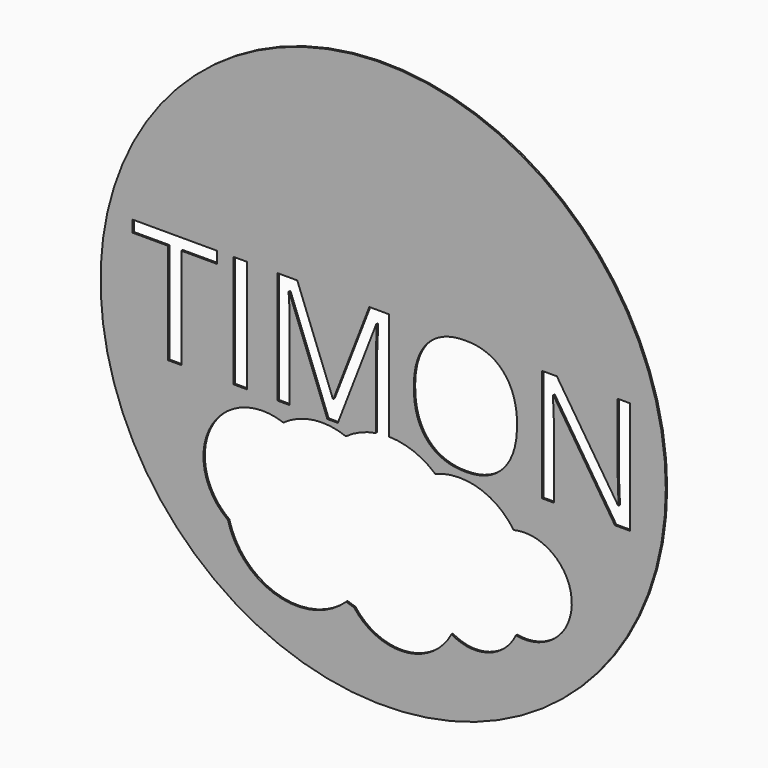
from build123d import *

# Parameters (mm, degrees)
F0_R     = 500
F0_W     = 23.0880718875
F0_H     = 198.6617711001
F1_DEPTH = 3


with BuildPart() as f1:
    # F0 (on Front) → F1 (new body)
    with BuildSketch(Plane.XZ):
        Circle(F0_R)
        with BuildLine():
            ThreePointArc((-274.567418569, -300.6351906095), (-305.6079419009, -166.1235155196), (-176.6063983823, -116.975711967))
            ThreePointArc((-176.6063983823, -116.975711967), (-123.1889327411, -95.6085057867), (-66.0571388124, -102.3865038656))
            ThreePointArc((-66.0571388124, -102.3865038656), (-40.8752164599, -88.187383642), (-13.1344654752, -80.0513549242))
            Line((-13.1344654752, -80.0513549242), (-13.1344654752, 41.8377829303))
            add(Edge.make_bspline(
                [(-13.1344654752, 41.8377829303), (-13.1344654752, 63.8388457836), (-11.2213295749, 89.6661804375)],
                knots=[0, 0, 0, 1, 1, 1], degree=2))
            Line((-11.2213295749, 89.6661804375), (-12.3083386092, 89.6661804375))
            Line((-12.3083386092, 89.6661804375), (-80.2681434307, -86.1684009433))
            Line((-80.2681434307, -86.1684009433), (-98.8777380971, -86.1684009433))
            Line((-98.8777380971, -86.1684009433), (-166.2722982207, 89.9270626057))
            Line((-166.2722982207, 89.9270626057), (-167.359307255, 89.9270626057))
            add(Edge.make_bspline(
                [(-167.359307255, 89.9270626057), (-165.4461713547, 69.0130087867), (-165.4461713547, 40.1855291983)],
                knots=[0, 0, 0, 1, 1, 1], degree=2))
            Line((-165.4461713547, 40.1855291983), (-165.4461713547, -86.1684009433))
            Line((-165.4461713547, -86.1684009433), (-186.7950287874, -86.1684009433))
            Line((-186.7950287874, -86.1684009433), (-186.7950287874, 112.4933701568))
            Line((-186.7950287874, 112.4933701568), (-152.0107396913, 112.4933701568))
            Line((-152.0107396913, 112.4933701568), (-89.0946567888, -51.3841118472))
            Line((-89.0946567888, -51.3841118472), (-88.0076477545, -51.3841118472))
            Line((-88.0076477545, -51.3841118472), (-24.5698005155, 112.4933701568))
            Line((-24.5698005155, 112.4933701568), (9.9536064123, 112.4933701568))
            Line((9.9536064123, 112.4933701568), (9.9536064123, -78.2026726688))
            ThreePointArc((9.9536064123, -78.2026726688), (53.773823289, -86.5372862236), (92.0090216607, -109.5100264977))
            ThreePointArc((92.0090216607, -109.5100264977), (168.8010036172, -106.3879816048), (230.8163361906, -151.7846134505))
            ThreePointArc((230.8163361906, -151.7846134505), (301.8959936917, -167.3086216291), (333.6679179608, -232.7598047248))
            ThreePointArc((333.6679179608, -232.7598047248), (303.4547141219, -296.9531582441), (234.7315185471, -314.581167554))
            ThreePointArc((234.7315185471, -314.581167554), (185.5253099789, -357.3835232893), (120.7398090278, -349.8914284782))
            ThreePointArc((120.7398090278, -349.8914284782), (38.3642732882, -404.4610167035), (-51.7318220906, -363.886856885))
            ThreePointArc((-51.7318220905, -363.886856885), (-58.6591581618, -362.0786424357), (-65.4384116096, -359.7766113262))
            ThreePointArc((-65.4384116096, -359.7766113262), (-186.9682580881, -390.1967718511), (-274.567418569, -300.6351906095))
        make_face(mode=Mode.SUBTRACT)
        Polygon((-357.1945649969, 91.9706395901), (-357.1945649969, -86.1684009433), (-380.2826368844, -86.1684009433), (-380.2826368844, 91.9706395901), (-443.198719787, 91.9706395901), (-443.198719787, 112.4933701568), (-294.2784820944, 112.4933701568), (-294.2784820944, 91.9706395901), align=None, mode=Mode.SUBTRACT)
        with Locations((-252.819957528, 13.1624846067)):
            Rectangle(F0_W, F0_H, mode=Mode.SUBTRACT)
        with BuildLine():
            add(Edge.make_bspline(
                [(212.8329725653, 88.4487303191), (236.877612403, 61.2735044628), (236.877612403, 13.4451069557)],
                knots=[0, 0, 0, 1, 1, 1], degree=2))
            add(Edge.make_bspline(
                [(236.877612403, 13.4451069557), (236.877612403, -34.2528494674), (212.7460118425, -61.5802565885)],
                knots=[0, 0, 0, 1, 1, 1], degree=2))
            add(Edge.make_bspline(
                [(212.7460118425, -61.5802565885), (188.6144112821, -88.9076637096), (145.6992946098, -88.9076637096)],
                knots=[0, 0, 0, 1, 1, 1], degree=2))
            add(Edge.make_bspline(
                [(145.6992946098, -88.9076637096), (101.8276099874, -88.9076637096), (77.9786317759, -62.0585405636)],
                knots=[0, 0, 0, 1, 1, 1], degree=2))
            add(Edge.make_bspline(
                [(77.9786317759, -62.0585405636), (54.1296535644, -35.2094174175), (54.1296535644, 13.7059891239)],
                knots=[0, 0, 0, 1, 1, 1], degree=2))
            add(Edge.make_bspline(
                [(54.1296535644, 13.7059891239), (54.1296535644, 62.2300724129), (78.0438523179, 88.9270142942)],
                knots=[0, 0, 0, 1, 1, 1], degree=2))
            add(Edge.make_bspline(
                [(78.0438523179, 88.9270142942), (101.9580510715, 115.6239561754), (145.9601767781, 115.6239561754)],
                knots=[0, 0, 0, 1, 1, 1], degree=2))
            add(Edge.make_bspline(
                [(145.9601767781, 115.6239561754), (188.7883327276, 115.6239561754), (212.8329725653, 88.4487303191)],
                knots=[0, 0, 0, 1, 1, 1], degree=2))
        make_face(mode=Mode.SUBTRACT)
        with BuildLine():
            Line((436.3220300077, 112.4933701568), (436.3220300077, -86.1684009433))
            Line((436.3220300077, -86.1684009433), (409.9729310174, -86.1684009433))
            Line((409.9729310174, -86.1684009433), (301.4024686762, 80.5353045497))
            Line((301.4024686762, 80.5353045497), (300.315459642, 80.5353045497))
            add(Edge.make_bspline(
                [(300.315459642, 80.5353045497), (302.4894777105, 51.1860606249), (302.4894777105, 26.7500975349)],
                knots=[0, 0, 0, 1, 1, 1], degree=2))
            Line((302.4894777105, 26.7500975349), (302.4894777105, -86.1684009433))
            Line((302.4894777105, -86.1684009433), (281.1406202777, -86.1684009433))
            Line((281.1406202777, -86.1684009433), (281.1406202777, 112.4933701568))
            Line((281.1406202777, 112.4933701568), (307.2288370998, 112.4933701568))
            Line((307.2288370998, 112.4933701568), (415.5384172728, -53.5581299157))
            Line((415.5384172728, -53.5581299157), (416.625426307, -53.5581299157))
            add(Edge.make_bspline(
                [(416.625426307, -53.5581299157), (416.3645441388, -49.9057795606), (415.4079761886, -29.9917740531)],
                knots=[0, 0, 0, 1, 1, 1], degree=2))
            add(Edge.make_bspline(
                [(415.4079761886, -29.9917740531), (414.4514082385, -10.0777685456), (414.7122904067, -1.5121373557)],
                knots=[0, 0, 0, 1, 1, 1], degree=2))
            Line((414.7122904067, -1.5121373557), (414.7122904067, 112.4933701568))
            Line((414.7122904067, 112.4933701568), (436.3220300077, 112.4933701568))
        make_face(mode=Mode.SUBTRACT)
    extrude(amount=F1_DEPTH)


solid = f1.part
